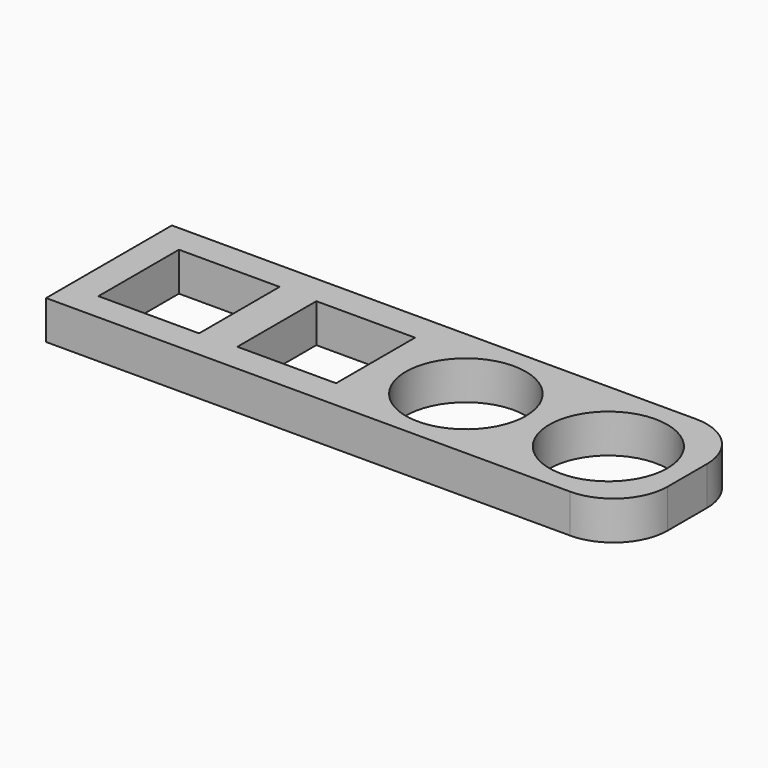
from build123d import *

# Parameters (mm, degrees)
F0_W     = 5.2
F0_H     = 5.2
F0_W_2   = 5.1
F0_H_2   = 5.1
F0_R     = 3.1
F0_R_2   = 3.05
F1_DEPTH = 2


with BuildPart() as f1:
    # F0 (on Top) → F1 (new body)
    with BuildSketch(Plane.XY):
        with BuildLine():
            Line((-17.674136, 4.078372), (-44.748526, 4.078372))
            Line((-44.748526, 4.078372), (-44.748526, -4.046109))
            Line((-44.748526, -4.046109), (-17.674136, -4.046109))
            ThreePointArc((-17.674136, -4.046109), (-15.694237, -3.226008), (-14.874136, -1.246109))
            Line((-14.874136, -1.246109), (-14.874136, 1.278372))
            ThreePointArc((-14.874136, 1.278372), (-15.694237, 3.258271), (-17.674136, 4.078372))
        make_face()
        with Locations((-40.60166, 0)):
            Rectangle(F0_W, F0_H, mode=Mode.SUBTRACT)
        with Locations((-33.513274, 0)):
            Rectangle(F0_W_2, F0_H_2, mode=Mode.SUBTRACT)
        with Locations((-26.299188, 0)):
            Circle(F0_R, mode=Mode.SUBTRACT)
        with Locations((-18.936377, 0)):
            Circle(F0_R_2, mode=Mode.SUBTRACT)
    extrude(amount=F1_DEPTH)


solid = f1.part
